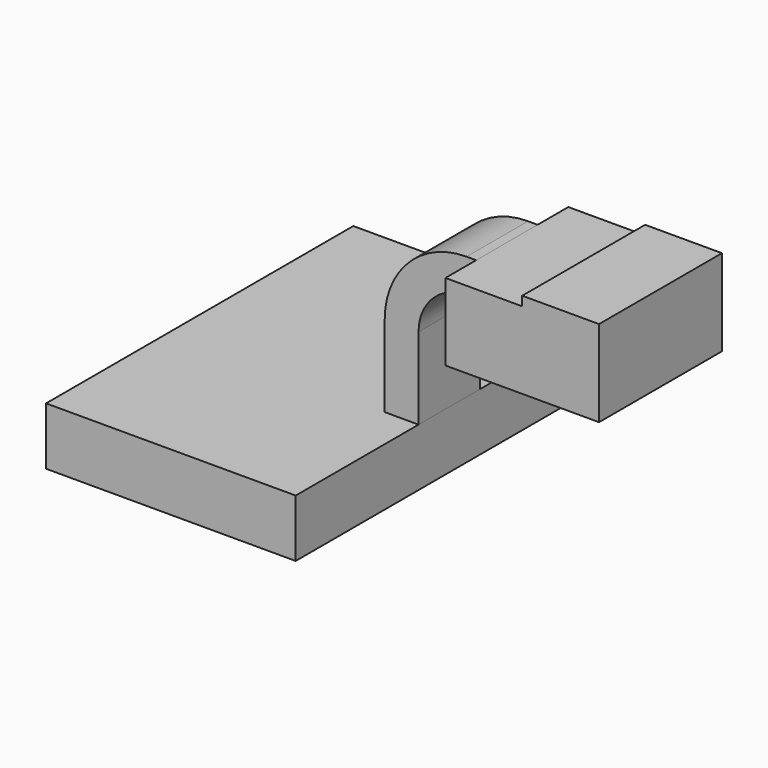
from build123d import *

# Parameters (mm, degrees)
F1_DEPTH = 63.5
F0_W     = 25.4
F0_H     = 14.3002
F0_H_2   = 11.1874153703
F2_DEPTH = 25.4
F3_DEPTH = 12.7


with BuildPart() as f1:
    # F0 (on Front) → F1 (new body, symmetric)
    with BuildSketch(Plane.XZ):
        Polygon((30.0875846297, 9.525), (-41.275, 9.525), (-41.275, -9.525), (41.275, -9.525), (41.275, 9.525), align=None)
    extrude(amount=F1_DEPTH, both=True)


with BuildPart() as f2:
    # F0 (on Front) → F2 (new body, symmetric)
    with BuildSketch(Plane.XZ):
        Polygon((85.725, 66.675), (85.725, 63.5876153703), (85.725, 52.4002), (85.725, 38.1), (111.125, 38.1), (111.125, 66.675), align=None)
        with Locations((73.025, 45.2501)):
            Rectangle(F0_W, F0_H)
        with Locations((73.025, 57.9939076852)):
            Rectangle(F0_W, F0_H_2)
    extrude(amount=F2_DEPTH, both=True)


with BuildPart() as f3:
    # F0 (on Front) → F3 (new body, symmetric)
    with BuildSketch(Plane.XZ):
        with BuildLine():
            Line((30.0875846297, 36.5252), (30.0875846297, 9.525))
            Line((30.0875846297, 9.525), (41.275, 9.525))
            Line((41.275, 9.525), (41.275, 36.5252))
            ThreePointArc((41.275, 36.5252), (45.9246798487, 47.7505201513), (57.15, 52.4002))
            Line((57.15, 52.4002), (60.325, 52.4002))
            Line((60.325, 52.4002), (60.325, 63.5876153703))
            Line((60.325, 63.5876153703), (57.15, 63.5876153703))
            ThreePointArc((57.15, 63.5876153703), (38.0139825763, 55.6612174237), (30.0875846297, 36.5252))
        make_face()
    extrude(amount=F3_DEPTH, both=True)


solid = Compound([f1.part, f2.part, f3.part])
